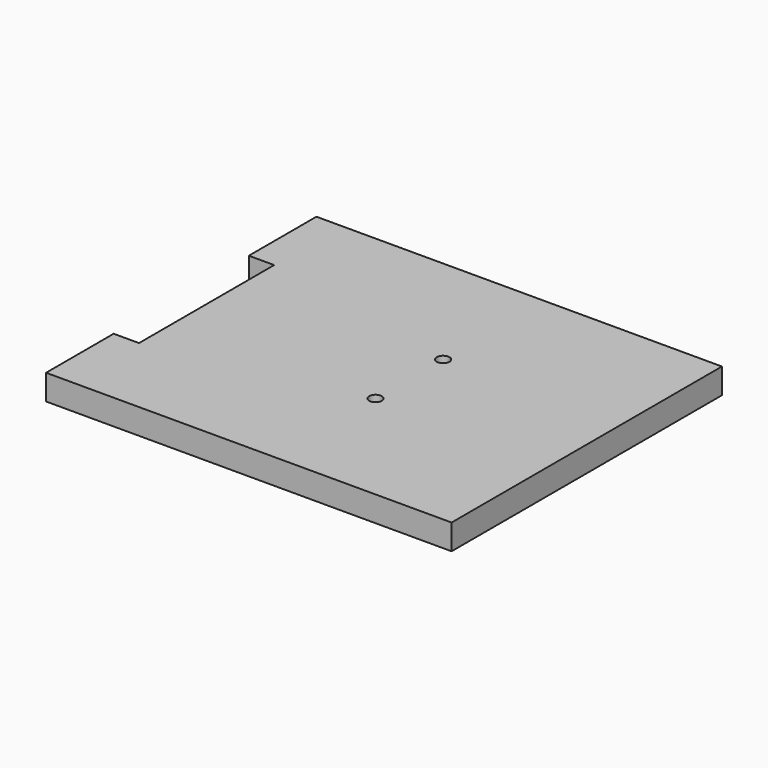
from build123d import *

# Parameters (mm, degrees)
F0_W     = 304.8
F0_H     = 254
F1_DEPTH = 19.05
F2_W     = 38.1
F2_H     = 127
F3_DEPTH = 19.051
F4_R     = 4.7625
F5_DEPTH = 19.051


with BuildPart() as f1:
    # F0 (on Top) → F1 (new body)
    with BuildSketch(Plane.XY):
        Rectangle(F0_W, F0_H)
    extrude(amount=F1_DEPTH)

    # F2 (on face) → F3 (cut, through all)
    with BuildSketch(Plane.XY.offset(19.05)):
        with Locations((-152.4, 0)):
            Rectangle(F2_W, F2_H)
    extrude(amount=-F3_DEPTH, mode=Mode.SUBTRACT)

    # F4 (on face) → F5 (cut, through all)
    with BuildSketch(Plane.XY.offset(19.05)):
        with Locations((19.05, 31.75)):
            Circle(F4_R)
        with Locations((19.05, -31.75)):
            Circle(F4_R)
    extrude(amount=-F5_DEPTH, mode=Mode.SUBTRACT)


solid = f1.part
